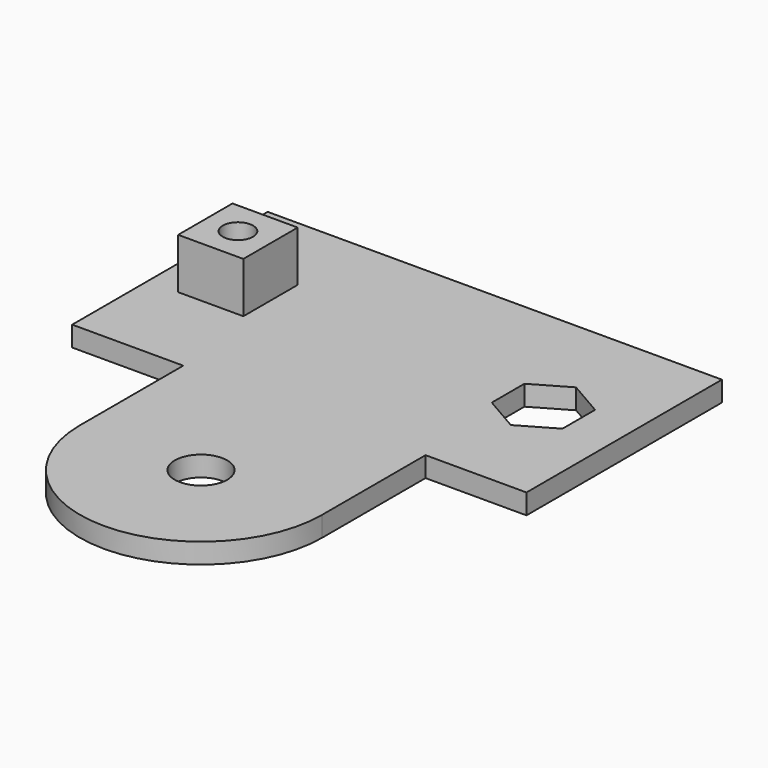
from build123d import *

# Parameters (mm, degrees)
F1_DEPTH = 2
F2_W     = 6.4592821483
F2_H     = 6.7308258385
F2_R     = 1.5
F3_DEPTH = 5
F4_R     = 1.5
F5_DEPTH = 2


with BuildPart() as f1:
    # F0 (on Top) → F1 (new body)
    with BuildSketch(Plane.XY):
        Polygon((19.8, 29.7919024055), (-25.2, 29.7919024055), (-25.2, 5.5919024055), (-14.2, 5.5919024055), (9.8, 5.5919024055), (19.8, 5.5919024055), align=None)
        with BuildLine():
            Line((9.8, 5.5919024055), (-14.2, 5.5919024055))
            Line((-14.2, 5.5919024055), (-14.2, -7.2080975945))
            Line((-14.2, -7.2080975945), (-4.8, -7.2080975945))
            ThreePointArc((-4.8, -7.2080975945), (-2.2, -4.6080975945), (0.4, -7.2080975945))
            Line((0.4, -7.2080975945), (9.8, -7.2080975945))
            Line((9.8, -7.2080975945), (9.8, 5.5919024055))
        make_face()
        with BuildLine():
            Line((-4.8, -7.2080975945), (-14.2, -7.2080975945))
            ThreePointArc((-14.2, -7.2080975945), (-2.2, -19.2080975945), (9.8, -7.2080975945))
            Line((9.8, -7.2080975945), (0.4, -7.2080975945))
            ThreePointArc((0.4, -7.2080975945), (-2.2, -9.8080975945), (-4.8, -7.2080975945))
        make_face()
    extrude(amount=F1_DEPTH)

    # F2 (on face) → F3 (join)
    with BuildSketch(Plane.XY.offset(2)):
        with Locations((-18.9703589258, 18.3236696757)):
            Rectangle(F2_W, F2_H)
        with Locations((-18.9703589258, 18.3236696757)):
            Circle(F2_R, mode=Mode.SUBTRACT)
    extrude(amount=F3_DEPTH)

    # F4 (on face) → F5 (cut, through all)
    with BuildSketch(Plane.XY.offset(2)):
        Polygon((15.3, 15.6711764633), (15.3, 19.7126283476), (11.8, 21.7333542898), (8.3, 19.7126283476), (8.3, 15.6711764633), (11.8, 13.6504505211), align=None)
        with Locations((11.8, 17.6919024055)):
            Circle(F4_R, mode=Mode.SUBTRACT)
        with Locations((11.8, 17.6919024055)):
            Circle(F4_R)
    extrude(amount=-F5_DEPTH, mode=Mode.SUBTRACT)


solid = f1.part
